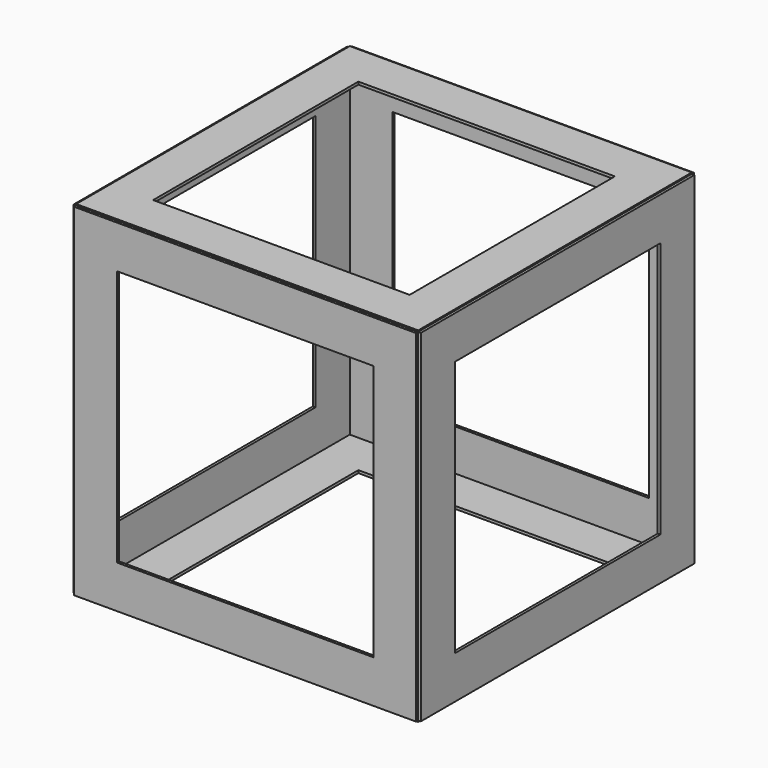
from build123d import *

# Parameters (mm, degrees)
SKETCH_W                 = 406.4
SKETCH_H                 = 406.4
SKETCH_W_2               = 304.8
SKETCH_H_2               = 304.8
PAD_DEPTH                = 1.5875
CLONE002_ROLL_ANGLE      = 90
CLONE002_PLACEMENT_ANGLE = 90
CLONE001_PLACEMENT_ANGLE = -90
CLONE003_PITCH_ANGLE     = -90
CLONE003_PLACEMENT_ANGLE = -90


with BuildPart() as left_frame:
    # Sketch → Pad (new body, symmetric)
    with BuildSketch(Plane.YZ):
        with Locations((203.2, 203.2)):
            Rectangle(SKETCH_W, SKETCH_H)
        with Locations((203.2, 203.2)):
            Rectangle(SKETCH_W_2, SKETCH_H_2, mode=Mode.SUBTRACT)
    extrude(amount=PAD_DEPTH, both=True)


with BuildPart() as back_frame:
    # Clone002 base: copy of Left Frame
    add(left_frame.part)


with BuildPart() as back_frame_1:
    # Clone002 roll: moved
    add(back_frame.part.rotate(Axis((0, 0, 0), (1, 0, 0)), CLONE002_ROLL_ANGLE))


with BuildPart() as back_frame_2:
    # Clone002 placement: moved
    add(back_frame_1.part.moved(Location((1.5875, 407.987, 0))).rotate(Axis((1.5875, 407.987, 0), (0, 0, 1)), CLONE002_PLACEMENT_ANGLE))


with BuildPart() as front_frame:
    # Clone001 base: copy of Left Frame
    add(left_frame.part)


with BuildPart() as front_frame_1:
    # Clone001 placement: moved
    add(front_frame.part.moved(Location((1.5875, -1.5875, 0))).rotate(Axis((1.5875, -1.5875, 0), (0, 0, 1)), CLONE001_PLACEMENT_ANGLE))


with BuildPart() as right_frame:
    # Clone base: copy of Left Frame
    add(left_frame.part)


with BuildPart() as right_frame_1:
    # Clone placement: moved
    add(right_frame.part.moved(Location((409.575, 0, 0))))


with BuildPart() as bottom_frame:
    # Clone003 base: copy of Left Frame
    add(left_frame.part)


with BuildPart() as bottom_frame_1:
    # Clone003 pitch: moved
    add(bottom_frame.part.rotate(Axis((0, 0, 0), (0, 1, 0)), CLONE003_PITCH_ANGLE))


with BuildPart() as bottom_frame_2:
    # Clone003 placement: moved
    add(bottom_frame_1.part.moved(Location((1.5875, 0, 0))).rotate(Axis((1.5875, 0, 0), (0, 0, 1)), CLONE003_PLACEMENT_ANGLE))


with BuildPart() as top_frame:
    # Clone004 base: copy of Bottom frame
    add(bottom_frame_2.part)


with BuildPart() as top_frame_1:
    # Clone004 placement: moved
    add(top_frame.part.moved(Location((0, 0, 406.4))))


with BuildPart() as frame:
    # Fusion005 base: copy of Bottom frame
    add(bottom_frame_2.part)

    # Fusion005: union Back Frame, Front Frame, Right Frame, Left Frame, Top Frame
    add(back_frame_2.part)
    add(front_frame_1.part)
    add(right_frame_1.part)
    add(left_frame.part)
    add(top_frame_1.part)


solid = frame.part
